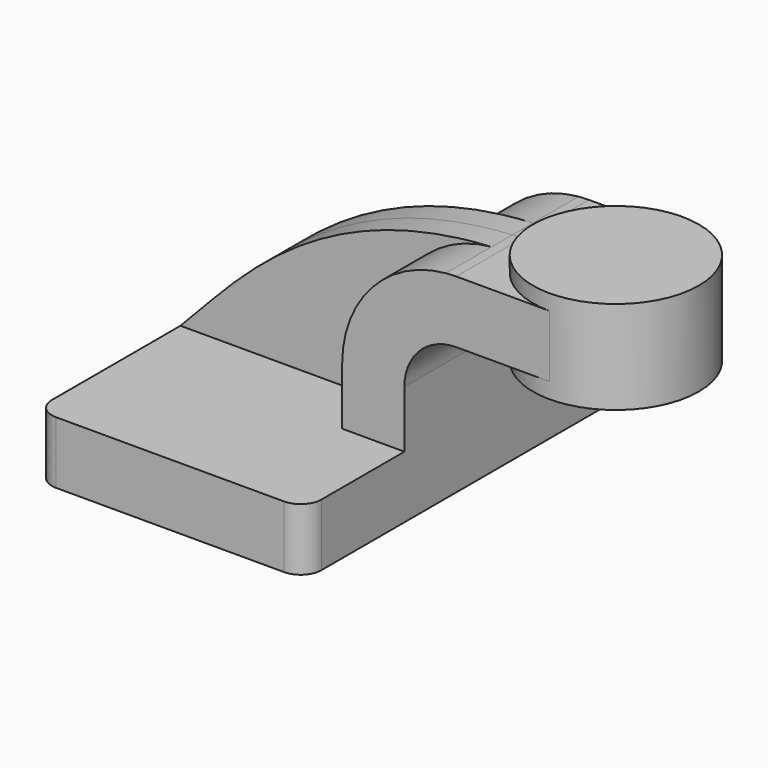
from build123d import *

# Parameters (mm, degrees)
F1_DEPTH = 63.5
F2_DEPTH = 25.4
F0_W     = 25.4
F0_H     = 19.05
F3_DEPTH = 25.4
F4_DEPTH = 7.9375
F6_R     = 6.35


with BuildPart() as f1:
    # F0 (on Front) → F1 (new body, symmetric)
    with BuildSketch(Plane.XZ):
        Polygon((-41.275, 9.525), (-41.275, -9.525), (41.275, -9.525), (41.275, 9.525), (22.225, 9.525), align=None)
    extrude(amount=F1_DEPTH, both=True)

    # F0 (on Front) → F2 (join, symmetric)
    with BuildSketch(Plane.XZ):
        with BuildLine():
            Line((22.225, 9.525), (41.275, 9.525))
            Line((41.275, 9.525), (41.275, 27.0002))
            ThreePointArc((41.275, 27.0002), (45.9246798487, 38.2255201513), (57.15, 42.8752))
            Line((57.15, 42.8752), (60.325, 42.8752))
            Line((60.325, 42.8752), (60.325, 61.9252))
            Line((60.325, 61.9252), (57.15, 61.9252))
            add(Edge.make_bspline(
                [(54.0079160608, 61.7835715088), (55.0442891577, 61.8415102214), (56.0915997071, 61.8888238055), (57.15, 61.9252)],
                knots=[109.4395067018, 109.4395067018, 109.4395067018, 109.4395067018, 111.5045361635, 111.5045361635, 111.5045361635, 111.5045361635], degree=3))
            ThreePointArc((54.0079160608, 61.7835715088), (31.3673226121, 50.5588326367), (22.225, 27.0002))
            Line((22.225, 27.0002), (22.225, 9.525))
        make_face()
    extrude(amount=F2_DEPTH, both=True)

    # F0 (on Front) → F3 (join, symmetric)
    with BuildSketch(Plane.XZ):
        with Locations((73.025, 52.4002)):
            Rectangle(F0_W, F0_H)
    extrude(amount=F3_DEPTH, both=True)

    # F0 (on Front) → F4 (join, symmetric)
    with BuildSketch(Plane.XZ):
        with BuildLine():
            add(Edge.make_bspline(
                [(-41.275, 9.525), (-25.1212076231, 25.8003253275), (-0.9163175084, 58.7130176756), (54.0079160608, 61.7835715088)],
                knots=[0, 0, 0, 0, 109.4395067018, 109.4395067018, 109.4395067018, 109.4395067018], degree=3))
            Line((-41.275, 9.525), (22.225, 9.525))
            Line((22.225, 9.525), (22.225, 27.0002))
            ThreePointArc((22.225, 27.0002), (31.3673226121, 50.5588326367), (54.0079160608, 61.7835715088))
        make_face()
    extrude(amount=F4_DEPTH, both=True)

    # F0 (on Front) → F5 (revolve)
    with BuildSketch(Plane.XZ):
        Polygon((85.725, 66.675), (85.725, 61.9252), (85.725, 42.8752), (85.725, 38.1), (111.125, 38.1), (111.125, 66.675), align=None)
    revolve(axis=Axis((85.725, 0, 52.3875), (0, 0, -1)))

    # F6
    f6_edges = [f1.edges().sort_by_distance(p)[0] for p in [
        (41.275, -63.5, 0),
        (-41.275, -63.5, 0),
        (41.275, 63.5, 0),
        (-41.275, 63.5, 0),
    ]]
    fillet(f6_edges, radius=F6_R)


solid = f1.part
